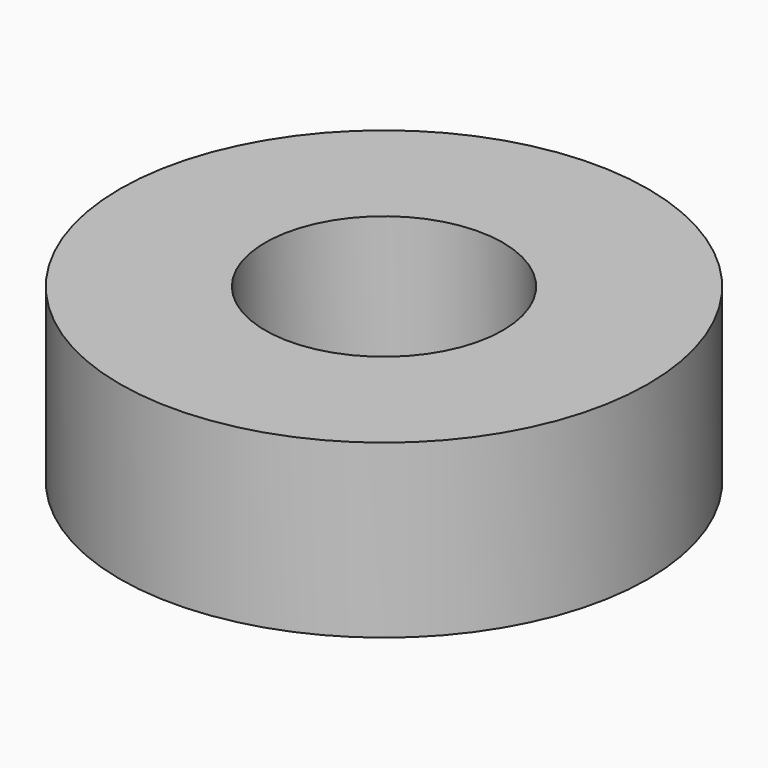
from build123d import *

# Parameters (mm, degrees)
SKETCH_R     = 5
PAD_DEPTH    = 3.25
SKETCH001_R  = 2.25
POCKET_DEPTH = 3.251


with BuildPart() as part:
    # Sketch → Pad (new body)
    with BuildSketch(Plane.XY):
        Circle(SKETCH_R)
    extrude(amount=PAD_DEPTH)

    # Sketch001 → Pocket (cut, through all)
    with BuildSketch(Plane.XY.offset(3.25)):
        Circle(SKETCH001_R)
    extrude(amount=-POCKET_DEPTH, mode=Mode.SUBTRACT)


solid = part.part
